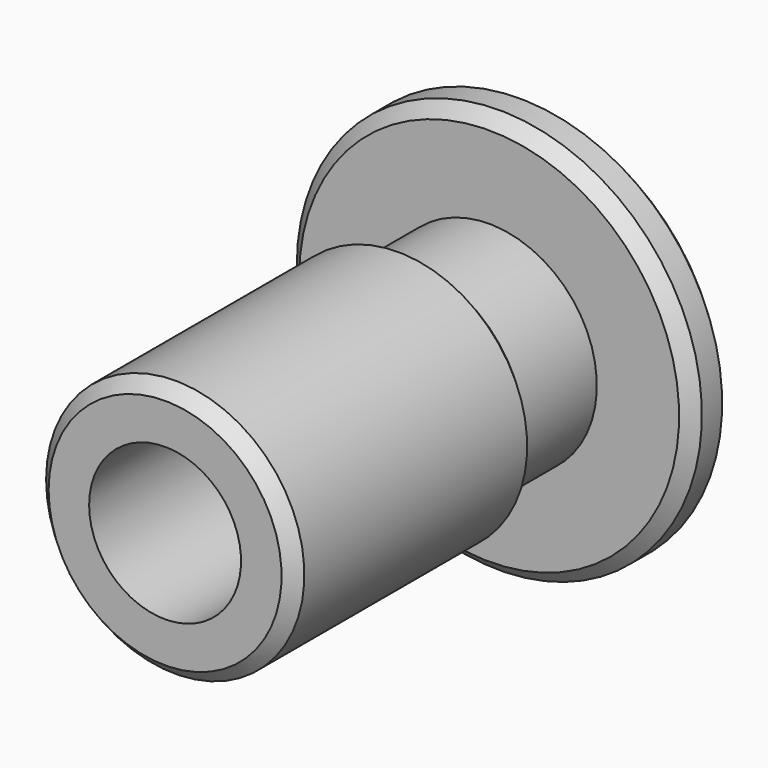
from build123d import *

# Parameters (mm, degrees)
F2_SIZE = 0.5


with BuildPart() as f1:
    # F0 (on Top) → F1 (revolve)
    with BuildSketch(Plane.XY):
        Polygon((-5.1, 12), (-5.1, 0), (-3, 0), (-3, 18), (-8, 18), (-8, 16), (-4.25, 16), (-4.25, 12), align=None)
    revolve(axis=Axis((0, 9, 0), (0, 1, 0)))

    # F2
    f2_edges = [f1.edges().sort_by_distance(p)[0] for p in [
        (8, 18, 0),
        (8, 16, 0),
        (-8, 17, 0),
        (5.1, 12, 0),
        (5.1, 0, 0),
        (-5.1, 6, 0),
    ]]
    chamfer(f2_edges, length=F2_SIZE)


solid = f1.part
